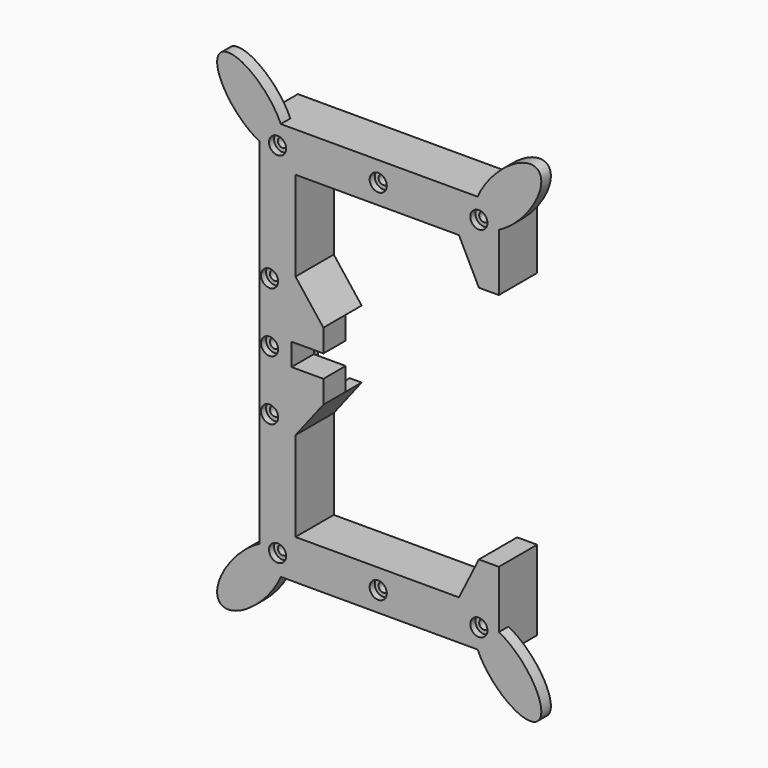
from build123d import *

# Parameters (mm, degrees)
PAD_DEPTH           = 12
HOLE_D              = 2.4
HOLE_CBORE_D        = 4.3
HOLE_CBORE_DEPTH    = 1.6
HOLE001_D           = 2.4
HOLE001_CBORE_D     = 4.3
HOLE001_CBORE_DEPTH = 1.6
PAD001_DEPTH        = 3
PAD002_DEPTH        = 7
SKETCH005_W         = 10
SKETCH005_H         = 5.6
POCKET_DEPTH        = 7.001


with BuildPart() as part:
    # Sketch001 → Pad (new body)
    with BuildSketch(Plane(origin=(-8.845912, -9.712389, 7.5), x_dir=(1, 0, 0), z_dir=(0, 1, 0))):
        Polygon((3.845912, -8.5), (-1.154088, -14.5), (-4.15, -14.5), (-4.15, 14.5), (-1.154088, 14.5), (3.845912, 8.5), (6.845912, 8.5), (-0.15, 17.5), (-0.15, 40), (40.85, 40), (45.85, 30), (50.85, 30), (50.85, 50), (-9.15, 50), (-9.15, 17.5), (-9.15, -17.5), (-9.15, -50), (50.85, -50), (50.85, -30), (45.85, -30), (40.85, -40), (-0.15, -40), (-0.15, -17.5), (6.845912, -8.5), align=None)
    extrude(amount=PAD_DEPTH)

    # Hole (through all)
    with Locations(Plane(origin=(-8.845912, -9.712389, 7.5), x_dir=(1, 0, 0), z_dir=(0, -1, 0))):
        with Locations((-6.654088, 0), (-6.654088, 15), (-6.654088, -15)):
            CounterBoreHole(HOLE_D / 2, HOLE_CBORE_D / 2, HOLE_CBORE_DEPTH)

    # Hole001 (through all)
    with Locations(Plane(origin=(-8.845912, -9.712389, 7.5), x_dir=(1, 0, 0), z_dir=(0, -1, 0))):
        with Locations((20.6, 45), (20.6, -45), (-4.65, -45), (45.85, -45), (-4.65, 45), (45.85, 45)):
            CounterBoreHole(HOLE001_D / 2, HOLE001_CBORE_D / 2, HOLE001_CBORE_DEPTH)

    # Sketch003 (on Face4 of Hole001) → Pad001 (join)
    with BuildSketch(Plane(origin=(-8.845912, -9.712389, 7.5), x_dir=(1, 0, 0), z_dir=(0, -1, 0))):
        with BuildLine():
            add(Edge.make_bspline(
                [(-3.840829, 50), (-11.66869, 68.504374), (-19.055727, 60.751289), (-26.442764, 52.998203), (-9.15, 44.427744)],
                knots=[4.051188, 4.051188, 4.051188, 6.317319, 6.317319, 8.58345, 8.58345, 8.58345], degree=2, weights=[1, 0.423885, 1, 0.423885, 1]))
            Line((-9.15, 44.427744), (-3.840829, 50))
        make_face()
        with BuildLine():
            add(Edge.make_bspline(
                [(50.85, 44.427744), (68.14745, 52.993644), (60.760992, 60.746122), (53.374534, 68.4986), (45.540829, 50)],
                knots=[3.983179, 3.983179, 3.983179, 6.249274, 6.249274, 8.515368, 8.515368, 8.515368], degree=2, weights=[1, 0.423902, 1, 0.423902, 1]))
            Line((45.540829, 50), (50.85, 44.427744))
        make_face()
        with BuildLine():
            add(Edge.make_bspline(
                [(-9.15, -44.427744), (-26.45485, -52.98644), (-19.069298, -60.737966), (-11.683747, -68.489493), (-3.840829, -50)],
                knots=[3.983587, 3.983587, 3.983587, 6.249624, 6.249624, 8.515661, 8.515661, 8.515661], degree=2, weights=[1, 0.423928, 1, 0.423928, 1]))
            Line((-3.840829, -50), (-9.15, -44.427744))
        make_face()
        with BuildLine():
            add(Edge.make_bspline(
                [(45.540829, -50), (53.375909, -68.497241), (60.762231, -60.744906), (68.148553, -52.99257), (50.85, -44.427744)],
                knots=[4.050959, 4.050959, 4.050959, 6.317045, 6.317045, 8.583131, 8.583131, 8.583131], degree=2, weights=[1, 0.423906, 1, 0.423906, 1]))
            Line((50.85, -44.427744), (45.540829, -50))
        make_face()
    extrude(amount=-PAD001_DEPTH)

    # Sketch004 (on Face4 of Pad001) → Pad002 (join)
    with BuildSketch(Plane(origin=(-8.845912, -9.712389, 7.5), x_dir=(1, 0, 0), z_dir=(0, -1, 0))):
        Polygon((-4.15, 14.5), (-4.15, -14.5), (-1.154088, -14.5), (3.845912, -8.5), (6.845912, -8.5), (6.845912, 8.5), (3.845912, 8.5), (-1.154088, 14.5), align=None)
    extrude(amount=-PAD002_DEPTH)

    # Sketch005 (on Face10 of Pad002) → Pocket (cut, through all)
    with BuildSketch(Plane(origin=(-8.845912, -2.712389, 7.5), x_dir=(1, 0, 0), z_dir=(0, 1, 0))):
        with Locations((3.845912, 0)):
            Rectangle(SKETCH005_W, SKETCH005_H)
    extrude(amount=-POCKET_DEPTH, mode=Mode.SUBTRACT)


solid = part.part
